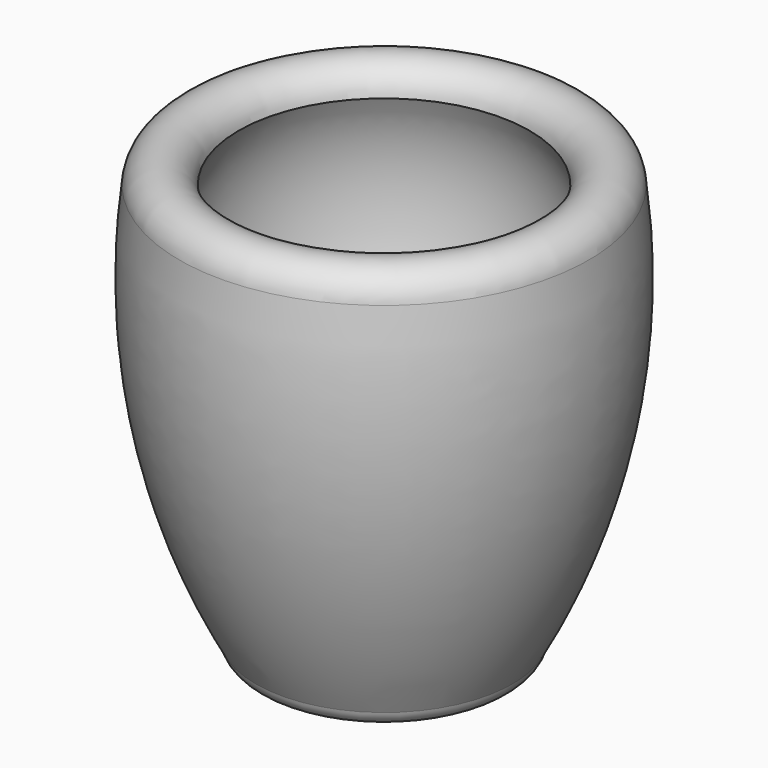
from build123d import *


with BuildPart() as f1:
    # F0 (on Front) → F1 (revolve)
    with BuildSketch(Plane.XZ):
        with BuildLine():
            add(Edge.make_bspline(
                [(-36.5617386997, 47.038719058), (-47.3044887185, 27.7759842575), (-31.8129149163, -13.1529801529), (-33.8430926204, -39.5310074091), (-22.3495630965, -50.4043517855)],
                knots=[0, 0, 0, 0, 0.5512957959, 1, 1, 1, 1], degree=3))
            ThreePointArc((-36.5617386997, 47.038719058), (-44.0089218318, 53.7769210742), (-51.456104964, 47.038719058))
            ThreePointArc((-51.456104964, 47.038719058), (-49.7919340249, -4.5247854582), (-32.2296880186, -53.0338771641))
            ThreePointArc((-32.2296880186, -53.0338771641), (-25.9173933102, -56.8751118786), (-22.3495630965, -50.4043517855))
        make_face()
    revolve(axis=Axis((0, 0, -19.0112497658), (0, 0, -1)))


solid = f1.part
